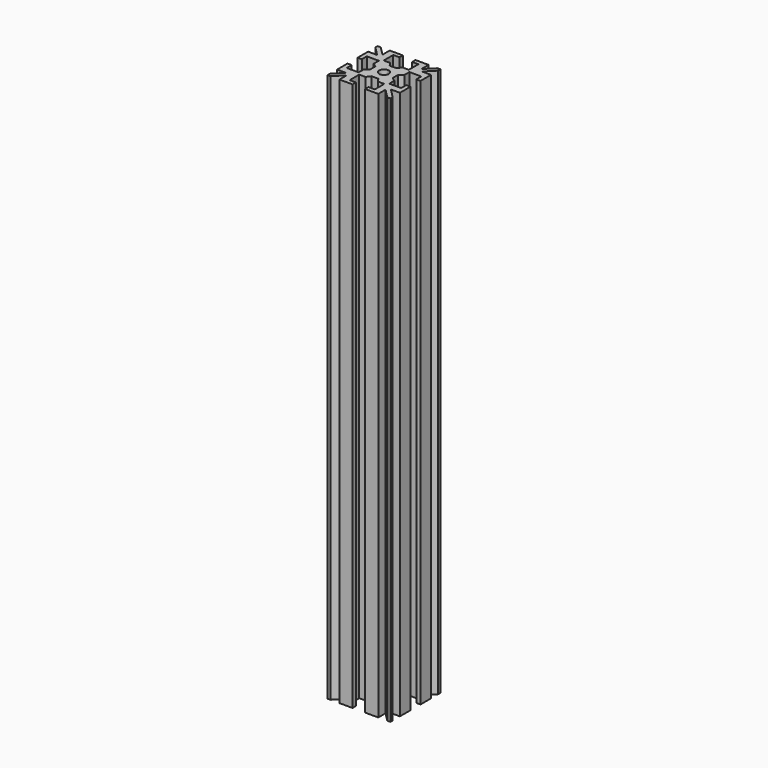
from build123d import *

# Parameters (mm, degrees)
F1_DEPTH = 131.02002


with BuildPart() as f1:
    # F0 (on Top) → F1 (new body)
    with BuildSketch(Plane.XY):
        Polygon((-6.088923, 3.030548), (-6.088923, -0.100038), (-5.088923, -0.100038), (-5.088923, 1.399962), (-2.238923, 1.399962), (-2.238923, -0.100038), (-1.303746, -0.785152), (-1.303746, -1.600038), (-1.303746, -2.414924), (-2.238923, -3.100038), (-2.238923, -4.600038), (-5.088923, -4.600038), (-5.088923, -3.100038), (-6.088923, -3.100038), (-6.088923, -6.230624), (-3.926616, -6.230624), (-6.088923, -8.392931), (-6.088923, -9.100038), (-5.381816, -9.100038), (-3.219509, -6.937731), (-3.219509, -9.100038), (-0.088923, -9.100038), (-0.088923, -8.100038), (-1.588923, -8.100038), (-1.588923, -5.250038), (-0.088923, -5.250038), (0.596191, -4.314861), (1.411077, -4.314861), (2.225963, -4.314861), (2.911077, -5.250038), (4.411077, -5.250038), (4.411077, -8.100038), (2.911077, -8.100038), (2.911077, -9.100038), (6.041663, -9.100038), (6.041663, -6.937731), (8.20397, -9.100038), (8.911077, -9.100038), (8.911077, -8.392931), (6.74877, -6.230624), (8.911077, -6.230624), (8.911077, -3.100038), (7.911077, -3.100038), (7.911077, -4.600038), (5.061077, -4.600038), (5.061077, -3.100038), (4.1259, -2.414924), (4.1259, -1.600038), (4.1259, -0.785152), (5.061077, -0.100038), (5.061077, 1.399962), (7.911077, 1.399962), (7.911077, -0.100038), (8.911077, -0.100038), (8.911077, 3.030548), (6.74877, 3.030548), (8.911077, 5.192855), (8.911077, 5.899962), (8.20397, 5.899962), (6.041663, 3.737655), (6.041663, 5.899962), (2.911077, 5.899962), (2.911077, 4.899962), (4.411077, 4.899962), (4.411077, 2.049962), (2.911077, 2.049962), (2.225963, 1.114785), (1.411077, 1.114785), (0.596191, 1.114785), (-0.088923, 2.049962), (-1.588923, 2.049962), (-1.588923, 4.899962), (-0.088923, 4.899962), (-0.088923, 5.899962), (-3.219509, 5.899962), (-3.219509, 3.737655), (-5.381816, 5.899962), (-6.088923, 5.899962), (-6.088923, 5.192855), (-3.926616, 3.030548), align=None)
        with BuildLine():
            ThreePointArc((0.261077, -1.600038), (0.597904, -0.786865), (1.411077, -0.450038))
            ThreePointArc((1.411077, -0.450038), (2.22425, -0.786865), (2.561077, -1.600038))
            ThreePointArc((2.561077, -1.600038), (2.22425, -2.413211), (1.411077, -2.750038))
            ThreePointArc((1.411077, -2.750038), (0.597904, -2.413211), (0.261077, -1.600038))
        make_face(mode=Mode.SUBTRACT)
    extrude(amount=F1_DEPTH)


solid = f1.part
